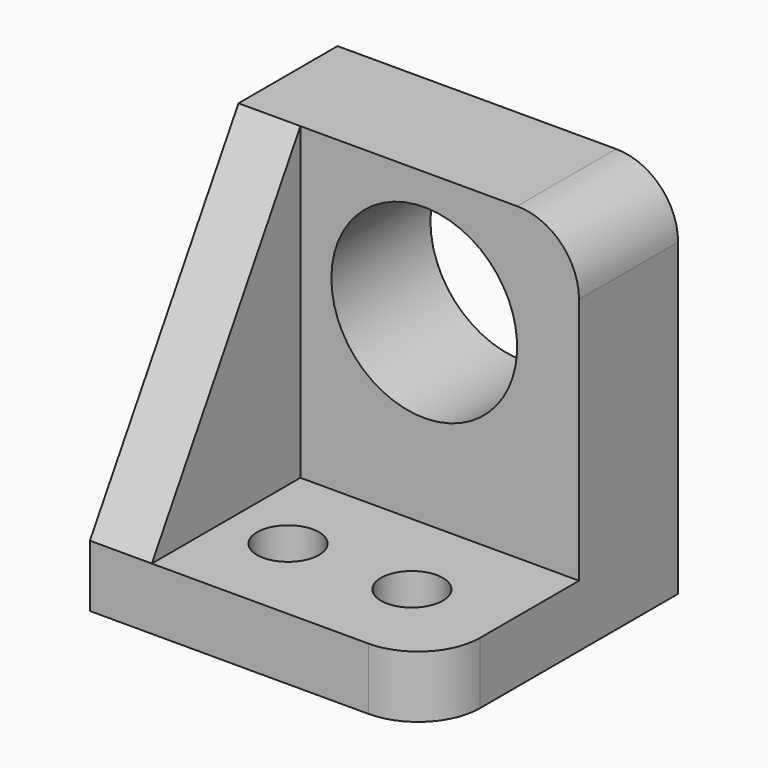
from build123d import *

# Parameters (mm, degrees)
F1_DEPTH = 27.5
F3_DEPTH = 10
F5_D     = 30
F7_D     = 10
F8_R     = 10
F9_R     = 10


with BuildPart() as f1:
    # F0 (on Right) → F1 (new body, symmetric)
    with BuildSketch(Plane.YZ):
        Polygon((-50, 0), (0, 0), (0, 60), (-20, 60), (-20, 10), (-50, 10), align=None)
    extrude(amount=F1_DEPTH, both=True)

    # F2 (on face) → F3 (join)
    with BuildSketch(Plane(origin=(-27.5, 0, 0), x_dir=(0, -1, 0), z_dir=(-1, 0, 0))):
        Polygon((50, 10), (20, 60), (20, 10), align=None)
    extrude(amount=-F3_DEPTH)

    # F5 (through all)
    with Locations(Plane.XZ.offset(20)):
        with Locations((2.5, 40)):
            Hole(F5_D / 2)

    # F7 (through all)
    with Locations(Plane.XY.offset(10)):
        with Locations((-7.5, -35), (12.5, -35)):
            Hole(F7_D / 2)

    # F8
    f8_edges = [f1.edges().sort_by_distance(p)[0] for p in [
        (27.5, -50, 5),
    ]]
    fillet(f8_edges, radius=F8_R)

    # F9
    f9_edges = [f1.edges().sort_by_distance(p)[0] for p in [
        (27.5, -10, 60),
    ]]
    fillet(f9_edges, radius=F9_R)


solid = f1.part
